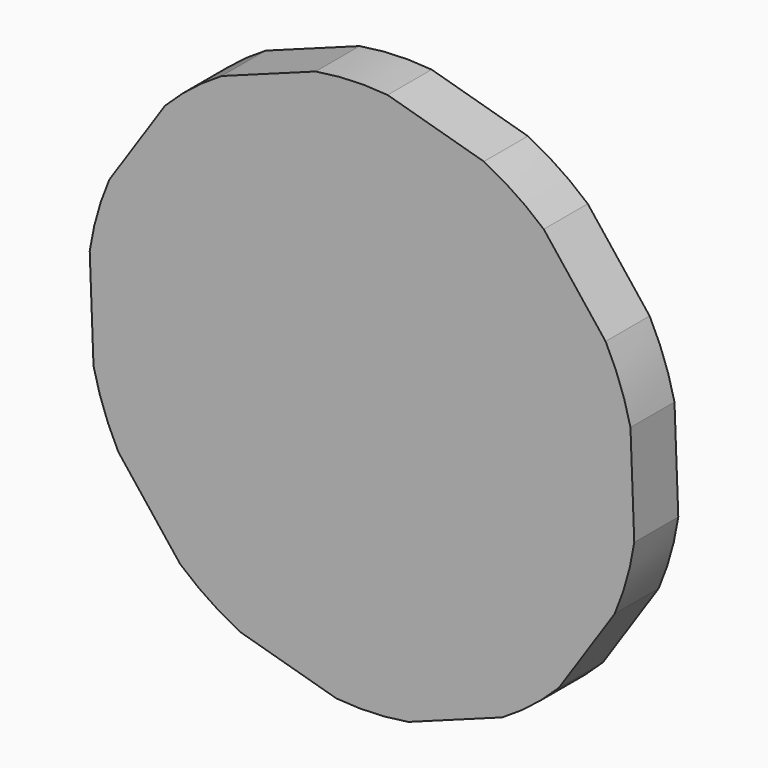
from build123d import *

# Parameters (mm, degrees)
F0_R     = 5
F1_DEPTH = 3
F2_R     = 15
F3_DEPTH = 3
F4_R     = 17.221585
F5_DEPTH = 25


with BuildPart() as f1:
    # F0 (on Front) → F1 (new body)
    with BuildSketch(Plane.XZ):
        Circle(F0_R)
    extrude(amount=F1_DEPTH)

    # F2 (on face) → F3 (join)
    with BuildSketch(Plane.XZ.offset(3)):
        Circle(F2_R)
    extrude(amount=F3_DEPTH)

    # F4 (on face) → F5 (cut)
    with BuildSketch(Plane.XZ.offset(6)):
        Circle(F4_R)
        Polygon((-9.586422, 12.19146), (-0.589618, 15.497856), (8.6324, 12.884598), (14.557135, 5.349861), (14.921539, -4.228341), (9.586422, -12.19146), (0.589618, -15.497856), (-8.6324, -12.884598), (-14.557135, -5.349861), (-14.921539, 4.228341), align=None, mode=Mode.SUBTRACT)
    extrude(amount=-F5_DEPTH, mode=Mode.SUBTRACT)


solid = f1.part
